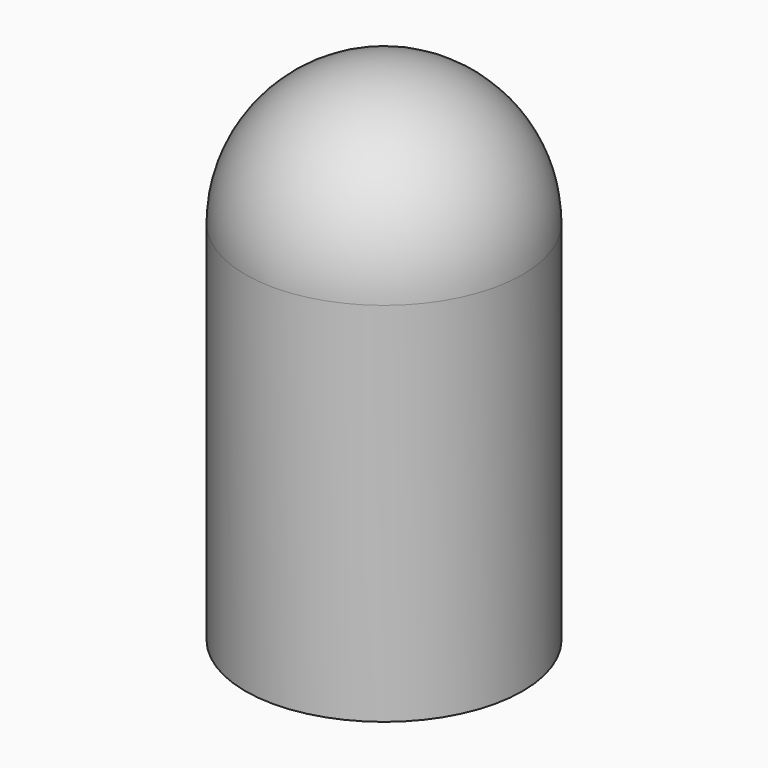
from build123d import *

# Parameters (mm, degrees)
F0_R     = 155
F1_DEPTH = 405
F4_R     = 148
F5_DEPTH = 405
F6_R     = 155
F6_R_2   = 148
F7_DEPTH = 5


with BuildPart() as f1:
    # F0 (on Top) → F1 (new body)
    with BuildSketch(Plane.XY):
        Circle(F0_R)
    extrude(amount=F1_DEPTH)

    # F2 (on face) → F3 (revolve)
    with BuildSketch(Plane.XY.offset(405)):
        with BuildLine():
            Line((0, 148), (0, 155))
            ThreePointArc((0, 155), (-155, 0), (0, -155))
            Line((0, -155), (0, -148))
            ThreePointArc((0, -148), (-148, 0), (0, 148))
        make_face()
    revolve(axis=Axis((0, -77.5, 405), (0, -1, 0)))

    # F4 (on face) → F5 (cut)
    with BuildSketch(Plane(origin=(0, 0, 0), x_dir=(1, 0, 0), z_dir=(0, 0, -1))):
        Circle(F4_R)
    extrude(amount=-F5_DEPTH, mode=Mode.SUBTRACT)

    # F6 (on face) → F7 (join)
    with BuildSketch(Plane(origin=(0, 0, 0), x_dir=(1, 0, 0), z_dir=(0, 0, -1))):
        Circle(F6_R)
        Circle(F6_R_2)
    extrude(amount=F7_DEPTH)


solid = f1.part
